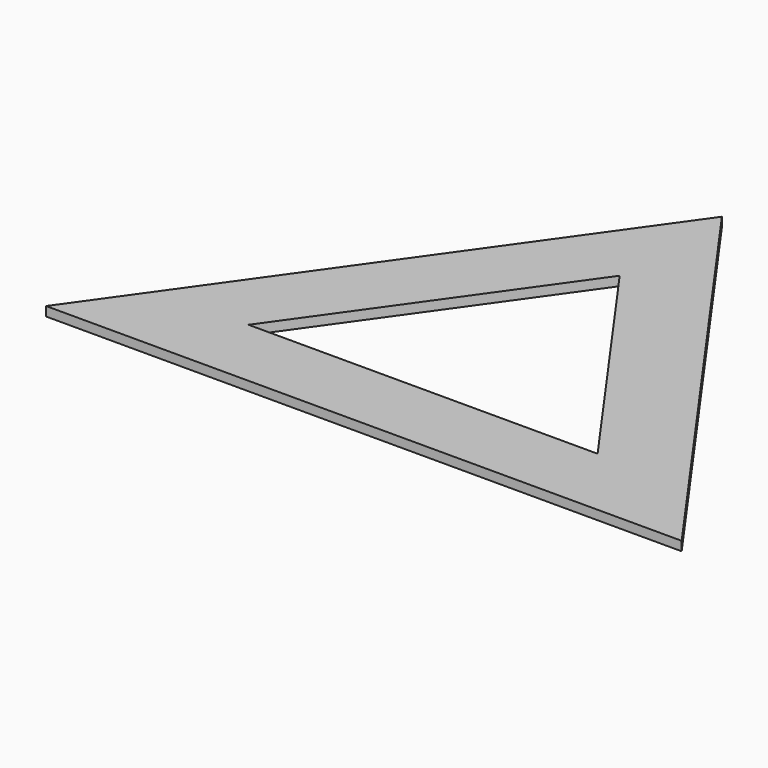
from build123d import *

# Parameters (mm, degrees)
EXTRUSION007_DEPTH = 57.9662962441
EXTRUSION006_DEPTH = 1


with BuildPart() as extrusion007:
    # Wire001 → Extrusion007 (new body)
    with BuildSketch(Plane(origin=(-19.0696986475, 108.1739584895, -123.4863420229), x_dir=(1, 0, 0), z_dir=(0, 0, -1))):
        Polygon((0, 0), (18.8765567724, 26.5836913795), (-18.8667640129, 26.5836945158), align=None)
    extrude(amount=-EXTRUSION007_DEPTH)


with BuildPart() as cut:
    # Wire → Extrusion006 (new body)
    with BuildSketch(Plane(origin=(15.2992136515, 73.5902667511, -123.4863420229), x_dir=(1, 0, 0), z_dir=(0, 0, 1))):
        Polygon((0, 0), (-68.7233756416, 0), (-34.3706052198, 48.4038255867), align=None)
    extrude(amount=EXTRUSION006_DEPTH)

    # Cut: cut Extrusion007
    add(extrusion007.part, mode=Mode.SUBTRACT)


solid = cut.part
